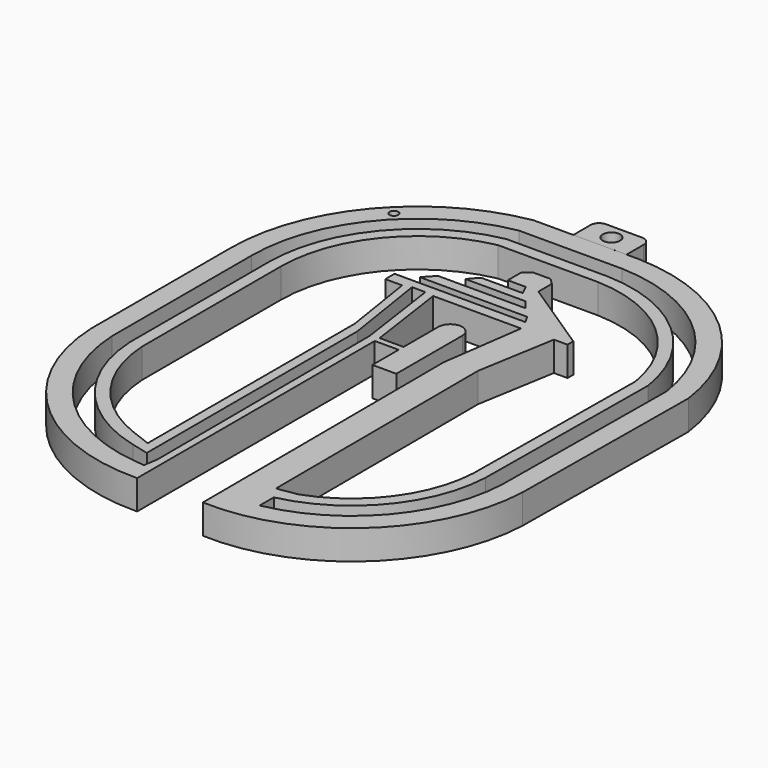
from build123d import *

# Parameters (mm, degrees)
F1_DEPTH = 4.318
F3_D     = 1.27
F4_R     = 1.27
F6_D     = 2.54


with BuildPart() as f1:
    # F0 (on Top) → F1 (new body)
    with BuildSketch(Plane.XY):
        with BuildLine():
            Line((-3.807525, 42.680658), (-9.637443, 42.679689))
            ThreePointArc((-9.637443, 42.679689), (-26.002474, 33.333548), (-32.47584, 15.634392))
            Line((-32.47584, 15.634392), (-32.47584, -10.057848))
            ThreePointArc((-32.47584, -10.057848), (-24.007392, -28.431685), (-5.140645, -35.736367))
            Line((-5.140645, -35.736367), (-5.140645, 7.892704))
            Line((-5.140645, 7.892704), (-1.633754, 7.892704))
            Line((-1.633754, 7.892704), (-1.633754, 3.077933))
            Line((-1.633754, 3.077933), (1.880592, 3.077933))
            Line((1.880592, 3.077933), (1.880592, 15.182903))
            ThreePointArc((1.880592, 15.182903), (0.123419, 16.940076), (-1.633754, 15.182903))
            Line((-1.633754, 15.182903), (-1.633754, 8.799357))
            Line((-1.633754, 8.799357), (-5.140645, 8.799357))
            Line((-5.140645, 8.799357), (-5.158467, 8.841277))
            Line((-5.158467, 8.841277), (-6.884762, 20.797787))
            Line((-6.884762, 20.797787), (6.028086, 20.797787))
            Line((6.028086, 20.797787), (4.334597, 8.717843))
            Line((4.334597, 8.717843), (4.523314, -35.736367))
            ThreePointArc((4.523314, -35.736367), (23.196497, -28.912131), (31.582396, -10.886187))
            Line((31.582396, -10.886187), (31.858511, 19.210141))
            ThreePointArc((31.858511, 19.210141), (23.150917, 35.726511), (5.823763, 42.682261))
            Line((5.823763, 42.682261), (4.009244, 42.681959))
            Line((4.009244, 42.681959), (4.009244, 42.680658))
            Line((4.009244, 42.680658), (-3.807525, 42.680658))
        make_face()
        with BuildLine():
            ThreePointArc((-29.427839, 15.634392), (-23.753892, 31.271591), (-9.372524, 39.631732))
            Line((-9.372524, 39.631732), (5.777224, 39.634252))
            ThreePointArc((5.777224, 39.634252), (21.047973, 33.518399), (28.808584, 19.014182))
            Line((28.808584, 19.014182), (28.535011, -10.805158))
            ThreePointArc((28.535011, -10.805158), (23.015799, -24.723226), (10.085638, -32.272083))
            Line((10.085638, -32.272083), (10.085638, -29.676103))
            ThreePointArc((10.085638, -29.676103), (21.238829, -22.891883), (25.995549, -10.734872))
            Line((25.995549, -10.734872), (26.266877, 18.839709))
            ThreePointArc((26.266877, 18.839709), (19.298591, 31.675205), (5.736107, 37.094245))
            Line((5.736107, 37.094245), (-9.138729, 37.091771))
            ThreePointArc((-9.138729, 37.091771), (-21.875519, 29.557844), (-26.88784, 15.634392))
            Line((-26.88784, 15.634392), (-26.88784, -9.918525))
            ThreePointArc((-26.88784, -9.918525), (-22.036998, -22.379371), (-10.728646, -29.515511))
            Line((-10.728646, -29.515511), (-8.188646, -30.149565))
            Line((-8.188646, -30.149565), (-8.188646, 8.498941))
            Line((-8.188646, 8.498941), (-10.151862, 20.997923))
            Line((-10.151862, 20.997923), (-8.188646, 20.997923))
            Line((-8.188646, 20.997923), (-6.384029, 8.498941))
            Line((-6.384029, 8.498941), (-6.217912, -30.631771))
            Line((-6.217912, -30.631771), (-6.542962, -32.72843))
            Line((-6.542962, -32.72843), (-8.188646, -32.545969))
            ThreePointArc((-8.188646, -32.545969), (-22.959228, -25.172514), (-29.427839, -9.983868))
            Line((-29.427839, -9.983868), (-29.427839, 15.634392))
        make_face(mode=Mode.SUBTRACT)
        with BuildLine():
            ThreePointArc((-25.109839, 15.634392), (-20.557774, 28.361099), (-8.966815, 35.313798))
            Line((-8.966815, 35.313798), (5.705844, 35.316239))
            ThreePointArc((5.705844, 35.316239), (18.075971, 30.383), (24.487616, 18.710482))
            Line((24.487616, 18.710482), (24.217941, -10.683905))
            ThreePointArc((24.217941, -10.683905), (20.563717, -20.88008), (11.853645, -27.318245))
            Line((11.853645, -27.318245), (8.897178, -27.801943))
            Line((8.897178, -27.801943), (8.738842, 9.495925))
            Line((8.738842, 9.495925), (10.69387, 20.988492))
            Line((10.69387, 20.988492), (12.697401, 20.988492))
            Line((12.697401, 20.988492), (12.697401, 22.048282))
            Line((12.697401, 22.048282), (1.853033, 29.195705))
            Line((1.853033, 29.195705), (1.853033, 31.660333))
            Line((1.853033, 31.660333), (0.990414, 32.522954))
            Line((0.990414, 32.522954), (-1.535831, 32.522954))
            Line((-1.535831, 32.522954), (-2.644915, 31.598717))
            Line((-2.644915, 31.598717), (-2.644915, 29.195705))
            Line((-2.644915, 29.195705), (0, 29.195705))
            Line((0, 29.195705), (0.682335, 27.778544))
            Line((0.682335, 27.778544), (-5.417622, 27.778544))
            Line((-5.417622, 27.778544), (-6.649936, 26.398076))
            Line((-6.649936, 26.398076), (2.214543, 26.398076))
            Line((2.214543, 26.398076), (3.287057, 25.047503))
            Line((3.287057, 25.047503), (-9.583112, 25.047503))
            Line((-9.583112, 25.047503), (-11.013131, 23.498315))
            Line((-11.013131, 23.498315), (-10.354273, 23.498315))
            Line((-10.354273, 23.498315), (4.756798, 23.498315))
            Line((4.756798, 23.498315), (5.432085, 22.346355))
            Line((5.432085, 22.346355), (-13.793723, 22.346355))
            Line((-13.793723, 22.346355), (-13.793723, 20.638278))
            Line((-13.793723, 20.638278), (-11.314222, 20.638278))
            Line((-11.314222, 20.638278), (-9.613894, 9.812995))
            Line((-9.613894, 9.812995), (-9.613894, -28.1965))
            Line((-9.613894, -28.1965), (-12.506647, -27.098147))
            ThreePointArc((-12.506647, -27.098147), (-21.36148, -20.352153), (-25.109839, -9.87044))
            Line((-25.109839, -9.87044), (-25.109839, 15.634392))
        make_face(mode=Mode.SUBTRACT)
        Polygon((-3.807525, 47.101174), (-3.807525, 42.680658), (4.009244, 42.681959), (4.009244, 47.101174), align=None)
    extrude(amount=F1_DEPTH)

    # F3 (through all)
    with Locations(Plane.XY.offset(4.318)):
        with Locations((-23.218805, 34.012619)):
            Hole(F3_D / 2)

    # F4
    f4_edges = [f1.edges().sort_by_distance(p)[0] for p in [
        (-3.807525, 47.101174, 2.159),
        (4.009244, 47.101174, 2.159),
    ]]
    fillet(f4_edges, radius=F4_R)

    # F6 (through all)
    with Locations(Plane.XY.offset(4.318)):
        with Locations((0, 44.919711)):
            Hole(F6_D / 2)


solid = f1.part
